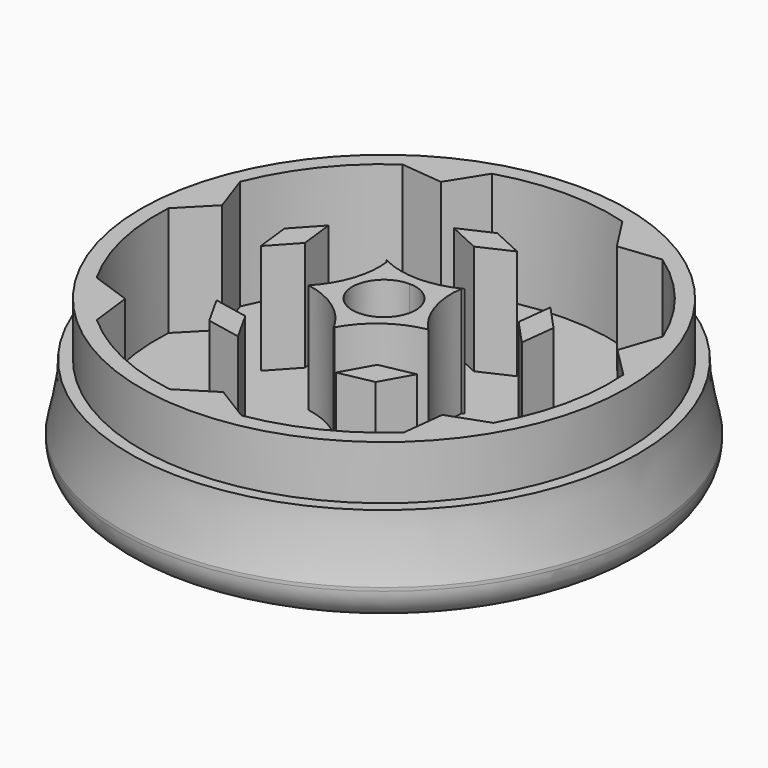
from build123d import *

# Parameters (mm, degrees)
F0_R      = 25
F1_DEPTH  = 15
F2_R      = 3
F5_R      = 21.5
F6_DEPTH  = 11
F8_DEPTH  = 10.8
F9_R      = 26.2697313625
F9_R_2    = 23
F10_DEPTH = 5.7
F11_W     = 62.843285501
F11_H     = 17.6012022421
F12_DEPTH = 30


with BuildPart() as f1:
    # F0 (on Top) → F1 (new body)
    with BuildSketch(Plane.XY):
        Circle(F0_R)
    extrude(amount=F1_DEPTH)

    # F2
    f2_edges = [f1.edges().sort_by_distance(p)[0] for p in [
        (-25, 0, 0),
    ]]
    fillet(f2_edges, radius=F2_R)

    # F3 (on Front) → F4 (revolve, cut)
    with BuildSketch(Plane.XZ):
        with BuildLine():
            Line((27.423677966, 5.2825664575), (25, 14.9365440011))
            add(Edge.make_bspline(
                [(25, 14.9365440011), (24.5482466845, 13.0284596048), (23.6395446157, 9.1903466819), (24.5447896478, 5.2825664575), (25, 3.3175051212)],
                knots=[0, 0, 0, 0, 0.4971412865, 1, 1, 1, 1], degree=3))
            Line((25, 3.3175051212), (27.423677966, 5.2825664575))
        make_face()
    revolve(axis=Axis((0, 0, 20.2008970082), (0, 0, -1)), mode=Mode.SUBTRACT)

    # F5 (on face) → F6 (cut)
    with BuildSketch(Plane.XY.offset(15)):
        Circle(F5_R)
    extrude(amount=-F6_DEPTH, mode=Mode.SUBTRACT)

    # F7 (on face) → F8 (join)
    with BuildSketch(Plane.XY.offset(4)):
        with BuildLine():
            Line((-3.5030060365, 4.8188975732), (-3.5, 4.8173367216))
            Line((-3.5, 4.8173367216), (-3.4936811056, 4.8173367216))
            ThreePointArc((-3.4936811056, 4.8173367216), (-3.4985674675, 4.8197108468), (-3.5034522162, 4.8220882896))
            ThreePointArc((-3.5034522162, 4.8220882896), (-3.5032289657, 4.8204929538), (-3.5030060365, 4.8188975732))
        make_face()
        with BuildLine():
            Line((-3.5019526458, 4.8113270959), (-3.5, 4.8173367216))
            Line((-3.5, 4.8173367216), (-3.5030060365, 4.8188975732))
            ThreePointArc((-3.5030060365, 4.8188975732), (-3.502478437, 4.8151124604), (-3.5019526458, 4.8113270959))
        make_face()
        with BuildLine():
            Line((-3.4936811056, 4.8173367216), (-3.5, 4.8173367216))
            Line((-3.5, 4.8173367216), (-3.5019526458, 4.8113270959))
            ThreePointArc((-3.5019526458, 4.8113270959), (-3.8176882042, 1.2404420916), (-5.6611663149, -1.8340492667))
            Line((-5.6611663149, -1.8340492667), (-5.6631189606, -1.8400588924))
            Line((-5.6631189606, -1.8400588924), (-5.6580068676, -1.8437730454))
            ThreePointArc((-5.6580068676, -1.8437730454), (-2.3594610686, -3.2475195569), (-0.005112093, -5.9508415055))
            Line((-0.005112093, -5.9508415055), (0, -5.9545556585))
            Line((0, -5.9545556585), (0.005112093, -5.9508415055))
            ThreePointArc((0.005112093, -5.9508415055), (0.0154537536, -5.9315416501), (0.025848199, -5.912270172))
            Line((0.025848199, -5.912270172), (0.0131157498, -2.9999713294))
            ThreePointArc((0.0131157498, -2.9999713294), (-2.9999928323, -0.0065578905), (0, 3))
            Line((0, 3), (0, 4.0141549306))
            ThreePointArc((0, 4.0141549306), (-1.7924082025, 4.2175356096), (-3.4936811056, 4.8173367216))
        make_face()
        Polygon((-3, 12.0141549306), (0, 10.6355519965), (0, 12.0141549306), (3, 12.0141549306), (0, 13.3927578647), align=None)
        Polygon((0, 12.0141549306), (0, 10.6355519965), (3, 12.0141549306), align=None)
        Polygon((3.9177863585, -21.4830770759), (0.0836216544, -19.1268185495), (0.0939962066, -21.4997945272), align=None)
        Polygon((0.0939962066, -21.4997945272), (0.0836216544, -19.1268185495), (-3.7297939454, -21.5165119786), align=None)
        with BuildLine():
            Line((-3.6865685479, 4.9142103997), (-3.5030060365, 4.8188975732))
            ThreePointArc((-3.5030060365, 4.8188975732), (-3.5032289657, 4.8204929538), (-3.5034522162, 4.8220882896))
            ThreePointArc((-3.5034522162, 4.8220882896), (-3.5953054485, 4.8675628244), (-3.6865685479, 4.9142103997))
        make_face()
        with BuildLine():
            ThreePointArc((3.5034522162, 4.8220882896), (1.7977022656, 4.218754584), (0, 4.0141549306))
            Line((0, 4.0141549306), (0, 3))
            ThreePointArc((0, 3), (2.1213203436, 2.1213203436), (3, 0))
            ThreePointArc((3, 0), (2.1259524041, -2.1166781464), (0.0131157498, -2.9999713294))
            Line((0.0131157498, -2.9999713294), (0.025848199, -5.912270172))
            ThreePointArc((0.025848199, -5.912270172), (2.3771928926, -3.2346736711), (5.6580068676, -1.8437730454))
            Line((5.6580068676, -1.8437730454), (5.6631189606, -1.8400588924))
            Line((5.6631189606, -1.8400588924), (5.6611663149, -1.8340492667))
            ThreePointArc((5.6611663149, -1.8340492667), (3.8176882042, 1.2404420916), (3.5019526458, 4.8113270959))
            Line((3.5019526458, 4.8113270959), (3.5, 4.8173367216))
            Line((3.5, 4.8173367216), (3.5030060365, 4.8188975732))
            ThreePointArc((3.5030060365, 4.8188975732), (3.5032289657, 4.8204929538), (3.5034522162, 4.8220882896))
        make_face()
        with BuildLine():
            Line((-5.6631189606, -1.8400588924), (-5.6611663149, -1.8340492667))
            ThreePointArc((-5.6611663149, -1.8340492667), (-5.6649342109, -1.8379628281), (-5.6687047637, -1.8418738299))
            ThreePointArc((-5.6687047637, -1.8418738299), (-5.6633554933, -1.8428216215), (-5.6580068676, -1.8437730454))
            Line((-5.6580068676, -1.8437730454), (-5.6631189606, -1.8400588924))
        make_face()
        with BuildLine():
            ThreePointArc((3.6865685479, 4.9142103997), (3.5953054485, 4.8675628244), (3.5034522162, 4.8220882896))
            ThreePointArc((3.5034522162, 4.8220882896), (3.5032289657, 4.8204929538), (3.5030060365, 4.8188975732))
            Line((3.5030060365, 4.8188975732), (3.6865685479, 4.9142103997))
        make_face()
        with BuildLine():
            ThreePointArc((3.5019526458, 4.8113270959), (3.502478437, 4.8151124604), (3.5030060365, 4.8188975732))
            Line((3.5030060365, 4.8188975732), (3.5, 4.8173367216))
            Line((3.5, 4.8173367216), (3.5019526458, 4.8113270959))
        make_face()
        with BuildLine():
            Line((0.0259506395, -5.9357014153), (0.025848199, -5.912270172))
            ThreePointArc((0.025848199, -5.912270172), (0.0154537536, -5.9315416501), (0.005112093, -5.9508415055))
            Line((0.005112093, -5.9508415055), (0.0259506395, -5.9357014153))
        make_face()
        with BuildLine():
            Line((0, -5.9545556585), (-0.005112093, -5.9508415055))
            ThreePointArc((-0.005112093, -5.9508415055), (-0.0025544188, -5.9556343446), (0, -5.9604289194))
            ThreePointArc((0, -5.9604289194), (0.0025544188, -5.9556343446), (0.005112093, -5.9508415055))
            Line((0.005112093, -5.9508415055), (0, -5.9545556585))
        make_face()
        with BuildLine():
            ThreePointArc((5.6687047637, -1.8418738299), (5.6649342109, -1.8379628281), (5.6611663149, -1.8340492667))
            Line((5.6611663149, -1.8340492667), (5.6631189606, -1.8400588924))
            Line((5.6631189606, -1.8400588924), (5.6580068676, -1.8437730454))
            ThreePointArc((5.6580068676, -1.8437730454), (5.6633554933, -1.8428216215), (5.6687047637, -1.8418738299))
        make_face()
        with BuildLine():
            Line((0.0259506395, -5.9357014153), (0.005112093, -5.9508415055))
            ThreePointArc((0.005112093, -5.9508415055), (0.0025544188, -5.9556343446), (0, -5.9604289194))
            ThreePointArc((0, -5.9604289194), (0.0131819815, -5.9852967616), (0.0262763915, -6.0102108267))
            Line((0.0262763915, -6.0102108267), (0.0259506395, -5.9357014153))
        make_face()
        Polygon((-12.7372696383, 4.1385897817), (-12.3531913176, 0.8594084977), (-10.1150110307, 3.2865663115), (-10.4990893514, 6.5657475955), align=None)
        Polygon((-7.8720655604, -10.8349687141), (-4.6346921038, -11.4830112688), (-6.2514206135, -8.6043423098), (-9.4887940701, -7.956299755), align=None)
        Polygon((7.8720655604, -10.8349687141), (9.4887940701, -7.956299755), (6.2514206135, -8.6043423098), (4.6346921038, -11.4830112688), align=None)
        Polygon((12.7372696383, 4.1385897817), (10.4990893514, 6.5657475955), (10.1150110307, 3.2865663115), (12.3531913176, 0.8594084977), align=None)
        Polygon((16.8678219042, -13.3314134363), (19.2388458386, -10.3314307527), (15.0060861502, -11.8599982656), (14.4967979698, -16.3313961198), align=None)
        Polygon((20.9398336671, 4.8757938835), (20.0726620013, 8.5999936501), (18.6286617065, 4.3376426122), (21.8070053329, 1.1515941169), align=None)
        Polygon((9.2437235839, 19.4114289609), (5.7913542693, 21.0554474264), (8.2234750424, 17.2689501312), (12.6960928985, 17.7674104954), align=None)
        Polygon((-9.4130988956, 19.3298621098), (-12.8509613495, 17.6557198378), (-8.374156057, 17.1963859791), (-5.9752364416, 21.0040043817), align=None)
        Polygon((-20.9816659144, 4.6925148326), (-21.8162409604, 0.9608751003), (-18.6658768438, 4.1745924423), (-20.1470908685, 8.424154565), align=None)
        Polygon((-16.7506105518, -13.4783918233), (-14.3534461578, -16.457528186), (-14.9018116527, -11.9907543496), (-19.1477749457, -10.4992554606), align=None)
    extrude(amount=F8_DEPTH)

    # F9 (on face) → F10 (cut)
    with BuildSketch(Plane.XY.offset(15)):
        Circle(F9_R)
        Circle(F9_R_2, mode=Mode.SUBTRACT)
    extrude(amount=-F10_DEPTH, mode=Mode.SUBTRACT)

    # F11 (on Right) → F12 (cut, symmetric)
    with BuildSketch(Plane.YZ):
        with Locations((-2.5946311653, 23.1964425184)):
            Rectangle(F11_W, F11_H)
    extrude(amount=F12_DEPTH, both=True, mode=Mode.SUBTRACT)


solid = f1.part
